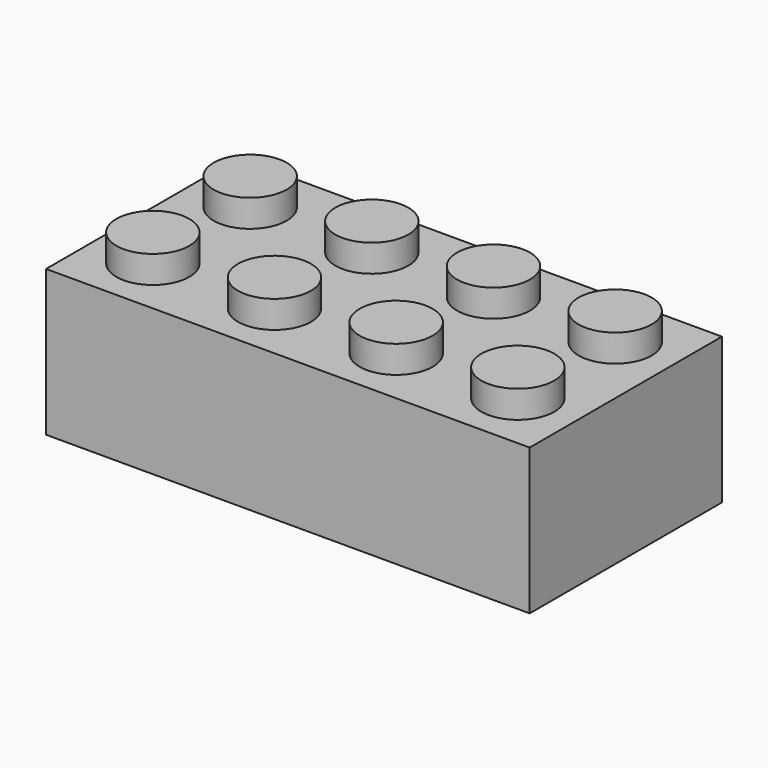
from build123d import *

# Parameters (mm, degrees)
F0_W     = 807.72
F0_H     = 401.32
F1_DEPTH = 243.84
F2_R     = 60.96
F3_DEPTH = 45.72
F4_W     = 746.76
F4_H     = 340.36
F5_DEPTH = 213.36
F6_R     = 82.55
F6_R_2   = 60.96
F7_DEPTH = 213.36


with BuildPart() as f1:
    # F0 (on Top) → F1 (new body)
    with BuildSketch(Plane.XY):
        with Locations((55.157317, -4.798351)):
            Rectangle(F0_W, F0_H)
    extrude(amount=F1_DEPTH)

    # F2 (on face) → F3 (join)
    with BuildSketch(Plane.XY.offset(243.84)):
        with Locations((-249.642683, -106.398351)):
            Circle(F2_R)
        with Locations((-249.642683, 96.801649)):
            Circle(F2_R)
        with Locations((-46.442683, -106.398351)):
            Circle(F2_R)
        with Locations((-46.442683, 96.801649)):
            Circle(F2_R)
        with Locations((156.757317, 96.801649)):
            Circle(F2_R)
        with Locations((359.957317, -106.398351)):
            Circle(F2_R)
        with Locations((359.957317, 96.801649)):
            Circle(F2_R)
        with Locations((156.757317, -106.398351)):
            Circle(F2_R)
    extrude(amount=F3_DEPTH)

    # F4 (on face) → F5 (cut)
    with BuildSketch(Plane(origin=(0, 0, 0), x_dir=(1, 0, 0), z_dir=(0, 0, -1))):
        with Locations((55.157317, 4.798351)):
            Rectangle(F4_W, F4_H)
    extrude(amount=-F5_DEPTH, mode=Mode.SUBTRACT)

    # F6 (on face) → F7 (join)
    with BuildSketch(Plane(origin=(0, 0, 213.36), x_dir=(1, 0, 0), z_dir=(0, 0, -1))):
        with Locations((55.157317, 4.798351)):
            Circle(F6_R)
        with Locations((55.157317, 4.798351)):
            Circle(F6_R_2, mode=Mode.SUBTRACT)
        with Locations((258.357317, 4.798351)):
            Circle(F6_R)
        with Locations((258.357317, 4.798351)):
            Circle(F6_R_2, mode=Mode.SUBTRACT)
        with Locations((-148.042683, 4.798351)):
            Circle(F6_R)
        with Locations((-148.042683, 4.798351)):
            Circle(F6_R_2, mode=Mode.SUBTRACT)
    extrude(amount=F7_DEPTH)


solid = f1.part
